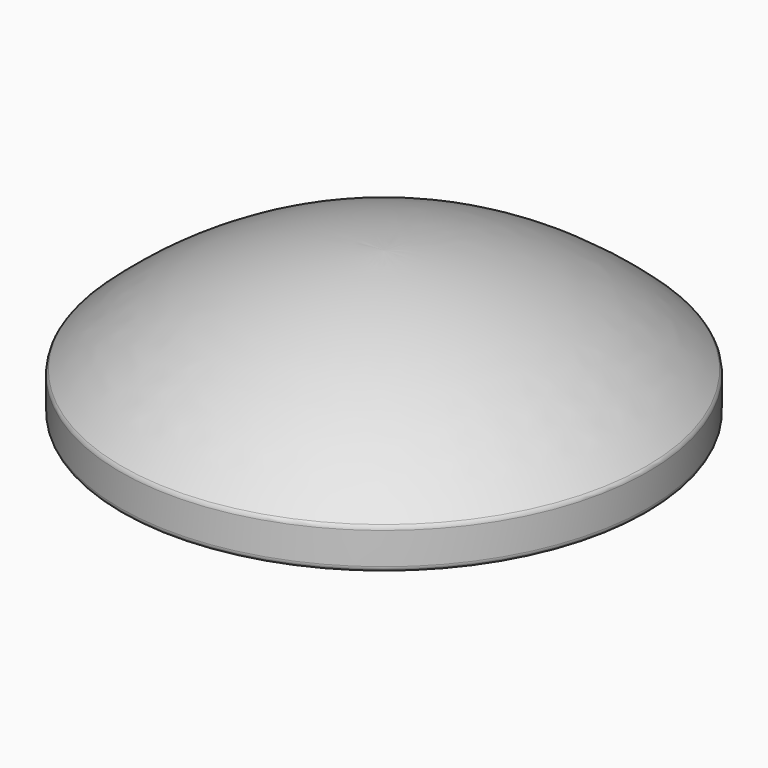
from build123d import *

# Parameters (mm, degrees)
F2_R     = 6.05
F3_DEPTH = 7
F4_R     = 0.5


with BuildPart() as f1:
    # F0 (on Front) → F1 (revolve)
    with BuildSketch(Plane.XZ):
        with BuildLine():
            Line((-23, 3.5), (-23, 0))
            Line((-23, 0), (0, 0))
            Line((0, 0), (0, 12.8))
            ThreePointArc((0, 12.8), (-12.351657, 10.256248), (-23, 3.5))
        make_face()
    revolve(axis=Axis((0, 0, 14.962358), (0, 0, 1)))

    # F2 (on face) → F3 (cut)
    with BuildSketch(Plane(origin=(0, 0, 0), x_dir=(1, 0, 0), z_dir=(0, 0, -1))):
        Circle(F2_R)
    extrude(amount=-F3_DEPTH, mode=Mode.SUBTRACT)

    # F4
    f4_edges = [f1.edges().sort_by_distance(p)[0] for p in [
        (23, 0, 0),
        (23, 0, 3.5),
    ]]
    fillet(f4_edges, radius=F4_R)


solid = f1.part
